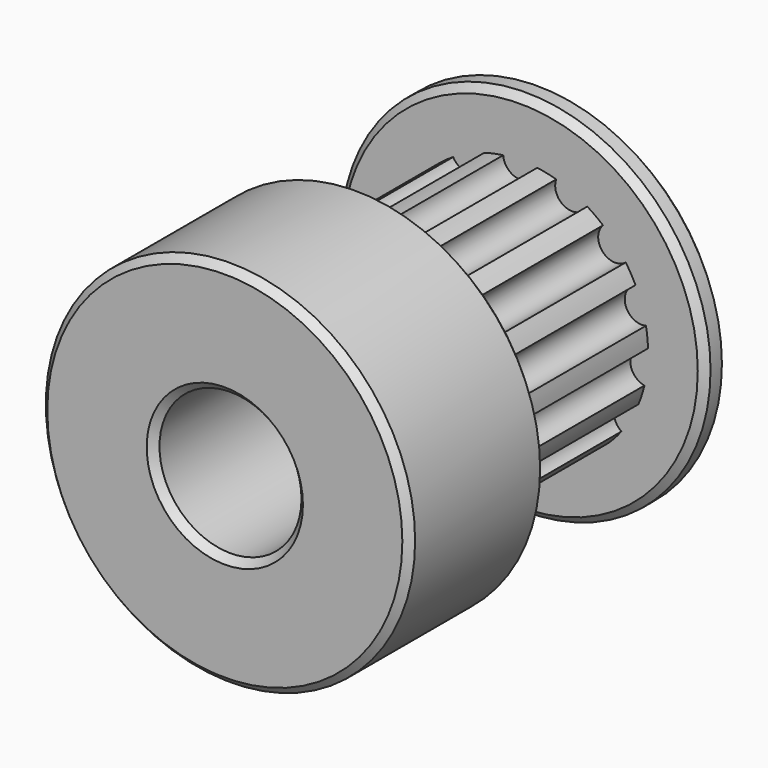
from build123d import *

# Parameters (mm, degrees)
F0_R     = 6.5
F1_DEPTH = 1
F2_R     = 4.5
F3_DEPTH = 7
F4_R     = 6.5
F5_DEPTH = 6
F6_R     = 0.6
F7_DEPTH = 7
F8_R     = 2.5
F9_DEPTH = 14.001
F10_SIZE = 0.25


with BuildPart() as f1:
    # F0 (on Front) → F1 (new body)
    with BuildSketch(Plane.XZ):
        Circle(F0_R)
    extrude(amount=F1_DEPTH)

    # F2 (on face) → F3 (join)
    with BuildSketch(Plane.XZ.offset(1)):
        Circle(F2_R)
    extrude(amount=F3_DEPTH)

    # F4 (on face) → F5 (join)
    with BuildSketch(Plane.XZ.offset(8)):
        Circle(F4_R)
    extrude(amount=F5_DEPTH)

    # F6 (on face) → F7 (cut, through all)
    with BuildSketch(Plane.XZ.offset(1)):
        with Locations((0, 4.5)):
            Circle(F6_R)
        with Locations((-1.830315, 4.110955)):
            Circle(F6_R)
        with Locations((-3.344152, 3.011088)):
            Circle(F6_R)
        with Locations((-4.279754, 1.390576)):
            Circle(F6_R)
        with Locations((-4.475349, -0.470378)):
            Circle(F6_R)
        with Locations((-3.897114, -2.25)):
            Circle(F6_R)
        with Locations((-2.645034, -3.640576)):
            Circle(F6_R)
        with Locations((-0.935603, -4.401664)):
            Circle(F6_R)
        with Locations((0.935603, -4.401664)):
            Circle(F6_R)
        with Locations((2.645034, -3.640576)):
            Circle(F6_R)
        with Locations((3.897114, -2.25)):
            Circle(F6_R)
        with Locations((4.475349, -0.470378)):
            Circle(F6_R)
        with Locations((4.279754, 1.390576)):
            Circle(F6_R)
        with Locations((3.344152, 3.011088)):
            Circle(F6_R)
        with Locations((1.830315, 4.110955)):
            Circle(F6_R)
    extrude(amount=F7_DEPTH, mode=Mode.SUBTRACT)

    # F8 (on face) → F9 (cut, through all)
    with BuildSketch(Plane.XZ.offset(14)):
        Circle(F8_R)
    extrude(amount=-F9_DEPTH, mode=Mode.SUBTRACT)

    # F10
    f10_edges = [f1.edges().sort_by_distance(p)[0] for p in [
        (6.5, -11, 0),
        (-6.5, -8, 0),
        (-6.5, -14, 0),
        (6.5, -0.5, 0),
        (-6.5, 0, 0),
        (-6.5, -1, 0),
        (-2.5, -14, 0),
        (2.5, -7, 0),
        (-2.5, 0, 0),
    ]]
    chamfer(f10_edges, length=F10_SIZE)


solid = f1.part
